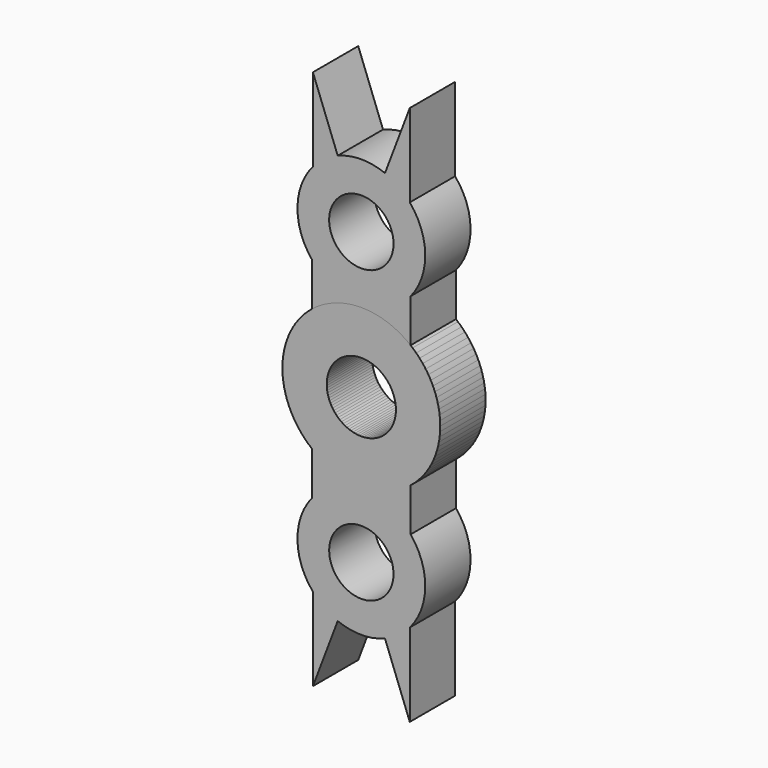
from build123d import *

# Parameters (mm, degrees)
F0_R     = 15.520501
F0_R_2   = 14.430148
F1_DEPTH = 25.4
F3_COUNT = 2
F3_ANGLE = 180


with BuildPart() as f1:
    # F0 (on Front) → F1 (new body)
    with BuildSketch(Plane.XZ):
        with BuildLine():
            Line((22.103196, 27.638023), (22.103196, 46.998277))
            ThreePointArc((22.103196, 46.998277), (28.64217, 65.520653), (21.711732, 83.900143))
            ThreePointArc((21.711732, 83.900143), (16.632446, 88.536929), (10.59432, 91.829337))
            ThreePointArc((10.59432, 91.829337), (0, 93.860591), (-10.59432, 91.829337))
            Line((-10.59432, 91.829337), (-21.711732, 121.154624))
            Line((-21.711732, 121.154624), (-21.711732, 83.900143))
            ThreePointArc((-21.711732, 83.900143), (-28.64217, 65.520653), (-22.103196, 46.998277))
            Line((-22.103196, 46.998277), (-22.103196, 27.638023))
            ThreePointArc((-22.103196, 27.638023), (0, -35.389428), (22.103196, 27.638023))
        make_face()
        Circle(F0_R, mode=Mode.SUBTRACT)
        with Locations((0, 65.21681)):
            Circle(F0_R_2, mode=Mode.SUBTRACT)
        with BuildLine():
            ThreePointArc((10.59432, 91.829337), (16.632446, 88.536929), (21.711732, 83.900143))
            Line((21.711732, 83.900143), (21.711732, 121.154624))
            Line((21.711732, 121.154624), (10.59432, 91.829337))
        make_face()
    extrude(amount=F1_DEPTH)


with BuildPart() as f3_1:
    # F3: instance of F1
    add(f1.part.rotate(Axis((0, -32.181293, 0), (0, -1, 0)), 1 * F3_ANGLE / (F3_COUNT - 1)))


solid = Compound([f1.part, f3_1.part])
